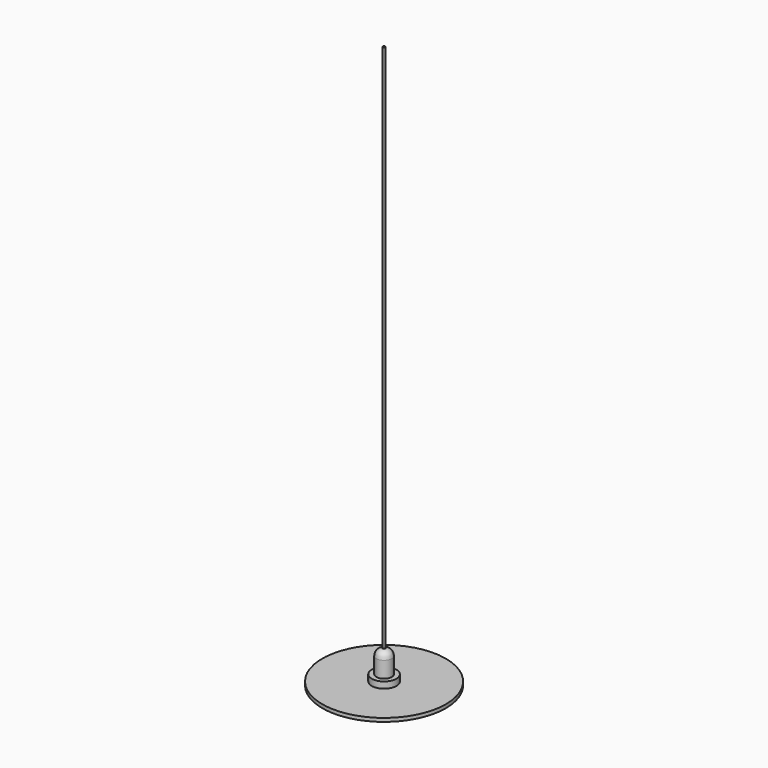
from build123d import *

# Parameters (mm, degrees)
F0_R     = 175
F0_R_2   = 21
F1_DEPTH = 10
F2_R     = 35
F2_R_2   = 21
F3_DEPTH = 18
F8_R     = 3
F9_DEPTH = 1500


with BuildPart() as f1:
    # F0 (on Top) → F1 (new body)
    with BuildSketch(Plane.XY):
        Circle(F0_R)
        Circle(F0_R_2, mode=Mode.SUBTRACT)
    extrude(amount=F1_DEPTH)


with BuildPart() as f3:
    # F2 (on face) → F3 (new body)
    with BuildSketch(Plane.XY.offset(10)):
        Circle(F2_R)
        Circle(F2_R_2, mode=Mode.SUBTRACT)
    extrude(amount=F3_DEPTH)


with BuildPart() as f5:
    # F4 (on Front) → F5 (revolve)
    with BuildSketch(Plane.XZ):
        with BuildLine():
            Line((-21.818178, 28), (0, 28))
            Line((0, 28), (0, 93))
            Line((0, 93), (-6.315121, 93))
            ThreePointArc((-6.315121, 93), (-17.454959, 86.194798), (-21.818178, 73.891584))
            Line((-21.818178, 73.891584), (-21.818178, 28))
        make_face()
    revolve(axis=Axis((0, 0, 60.5), (0, 0, 1)))


with BuildPart() as f7:
    # F6 (on Front) → F7 (revolve)
    with BuildSketch(Plane.XZ):
        with BuildLine():
            Line((0, 0), (-21, 0))
            ThreePointArc((-21, 0), (-38.482227, -44.958218), (0, -74.044089))
            Line((0, -74.044089), (0, 0))
        make_face()
    revolve(axis=Axis((0, 0, -37.022045), (0, 0, -1)))


with BuildPart() as f9:
    # F8 (on face) → F9 (new body)
    with BuildSketch(Plane.XY.offset(93)):
        Circle(F8_R)
    extrude(amount=F9_DEPTH)


solid = Compound([f1.part, f3.part, f5.part, f7.part, f9.part])
